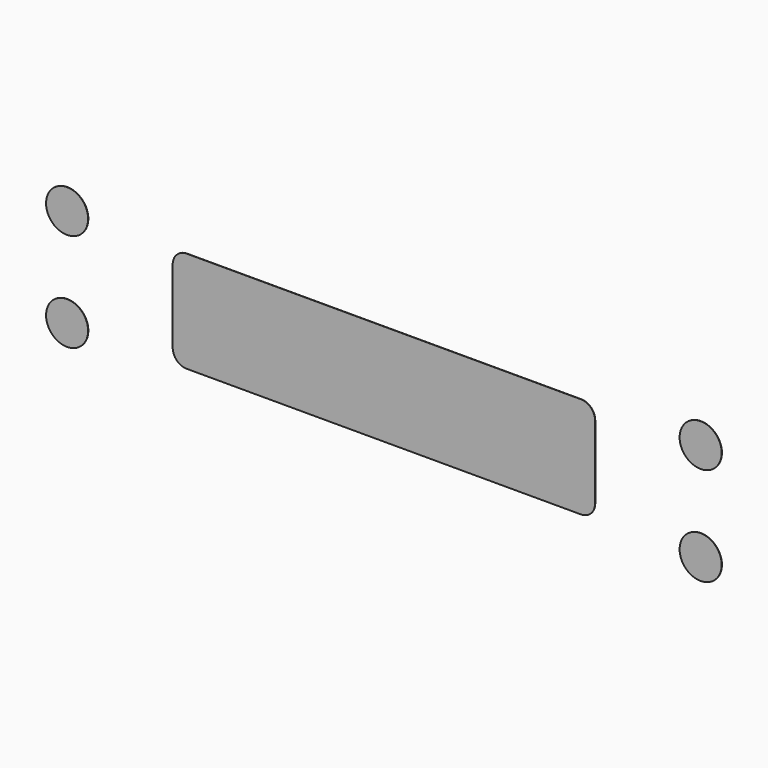
from build123d import *

# Parameters (mm, degrees)
F0_R     = 1.89865
F1_DEPTH = 0.0254


with BuildPart() as f1:
    # F0 (on Front) → F1 (new body)
    with BuildSketch(Plane.XZ):
        with BuildLine():
            ThreePointArc((0, 1.27), (0.371974, 0.371974), (1.27, 0))
            Line((1.27, 0), (36.83, 0))
            ThreePointArc((36.83, 0), (37.728026, 0.371974), (38.1, 1.27))
            Line((38.1, 1.27), (38.1, 7.874))
            ThreePointArc((38.1, 7.874), (37.728026, 8.772026), (36.83, 9.144))
            Line((36.83, 9.144), (1.27, 9.144))
            ThreePointArc((1.27, 9.144), (0.371974, 8.772026), (0, 7.874))
            Line((0, 7.874), (0, 1.27))
        make_face()
        with Locations((-9.525, 9.017)):
            Circle(F0_R)
        with Locations((-9.525, 0.127)):
            Circle(F0_R)
        with Locations((47.625, 9.017)):
            Circle(F0_R)
        with Locations((47.625, 0.127)):
            Circle(F0_R)
    extrude(amount=F1_DEPTH)


solid = f1.part
